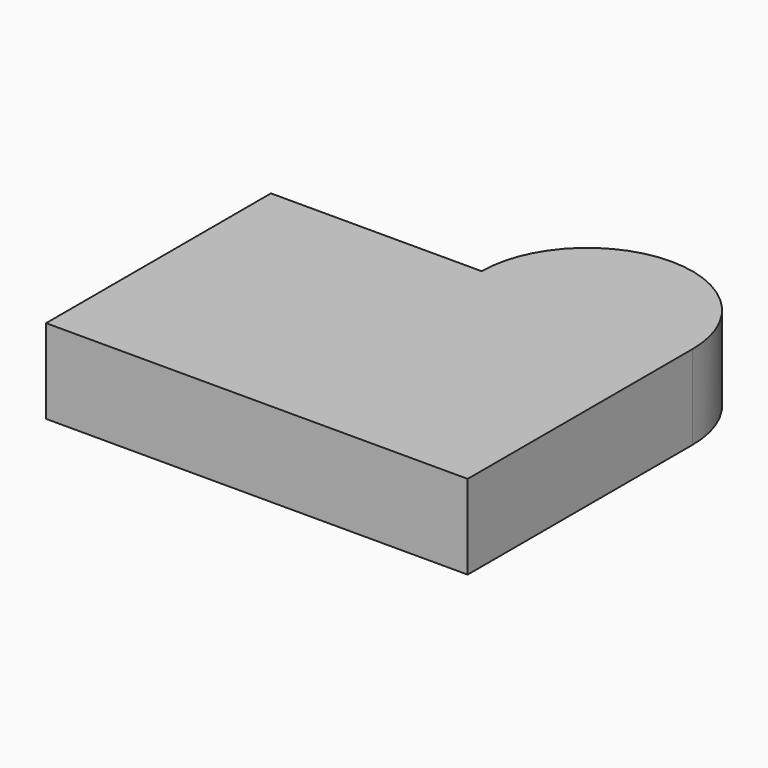
from build123d import *

# Parameters (mm, degrees)
F1_DEPTH = 76.2


with BuildPart() as f1:
    # F0 (on Top) → F1 (new body)
    with BuildSketch(Plane.XY):
        Polygon((-179.918276, -150.569106), (201.081724, -150.569106), (201.081724, 103.430894), (10.581724, 103.430894), (-179.918276, 103.430894), align=None)
        with BuildLine():
            Line((10.581724, 103.430894), (201.081724, 103.430894))
            ThreePointArc((201.081724, 103.430894), (105.831724, 198.680894), (10.581724, 103.430894))
        make_face()
    extrude(amount=F1_DEPTH)


solid = f1.part
